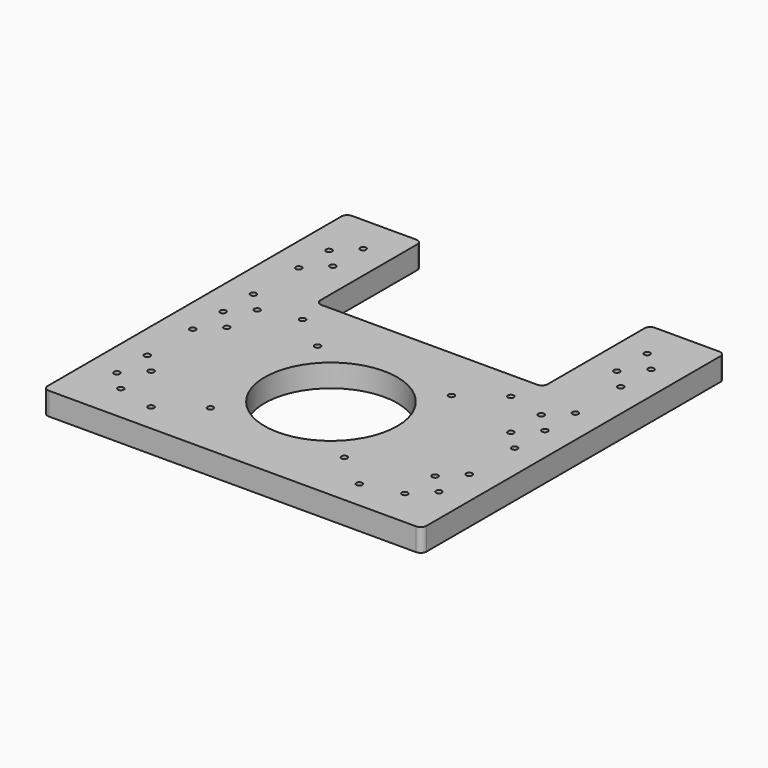
from build123d import *

# Parameters (mm, degrees)
SKETCH_R    = 35
SKETCH_R_2  = 1.5625
PAD_DEPTH   = 12
FILLET_R    = 3
FILLET001_R = 3


with BuildPart() as part:
    # Sketch → Pad (new body)
    with BuildSketch(Plane.XY):
        Polygon((0, 0), (200, 0), (200, 200), (160, 200), (160, 130), (40, 130), (40, 200), (0, 200), align=None)
        with Locations((100, 65)):
            Circle(SKETCH_R, mode=Mode.SUBTRACT)
        with Locations((45, 115)):
            Circle(SKETCH_R_2, mode=Mode.SUBTRACT)
        with Locations((45, 15)):
            Circle(SKETCH_R_2, mode=Mode.SUBTRACT)
        with Locations((155, 115)):
            Circle(SKETCH_R_2, mode=Mode.SUBTRACT)
        with Locations((155, 15)):
            Circle(SKETCH_R_2, mode=Mode.SUBTRACT)
        with Locations((185, 30)):
            Circle(SKETCH_R_2, mode=Mode.SUBTRACT)
        with Locations((135.355339, 100.355339)):
            Circle(SKETCH_R_2, mode=Mode.SUBTRACT)
        with Locations((64.644661, 29.644661)):
            Circle(SKETCH_R_2, mode=Mode.SUBTRACT)
        with Locations((64.644661, 100.355339)):
            Circle(SKETCH_R_2, mode=Mode.SUBTRACT)
        with Locations((135.355339, 29.644661)):
            Circle(SKETCH_R_2, mode=Mode.SUBTRACT)
        with Locations((175, 20)):
            Circle(SKETCH_R_2, mode=Mode.SUBTRACT)
        with Locations((175, 40)):
            Circle(SKETCH_R_2, mode=Mode.SUBTRACT)
        with Locations((185, 50)):
            Circle(SKETCH_R_2, mode=Mode.SUBTRACT)
        with Locations((175, 90)):
            Circle(SKETCH_R_2, mode=Mode.SUBTRACT)
        with Locations((175, 110)):
            Circle(SKETCH_R_2, mode=Mode.SUBTRACT)
        with Locations((185, 80)):
            Circle(SKETCH_R_2, mode=Mode.SUBTRACT)
        with Locations((185, 100)):
            Circle(SKETCH_R_2, mode=Mode.SUBTRACT)
        with Locations((15, 30)):
            Circle(SKETCH_R_2, mode=Mode.SUBTRACT)
        with Locations((25, 20)):
            Circle(SKETCH_R_2, mode=Mode.SUBTRACT)
        with Locations((25, 40)):
            Circle(SKETCH_R_2, mode=Mode.SUBTRACT)
        with Locations((15, 50)):
            Circle(SKETCH_R_2, mode=Mode.SUBTRACT)
        with Locations((25, 90)):
            Circle(SKETCH_R_2, mode=Mode.SUBTRACT)
        with Locations((25, 110)):
            Circle(SKETCH_R_2, mode=Mode.SUBTRACT)
        with Locations((15, 80)):
            Circle(SKETCH_R_2, mode=Mode.SUBTRACT)
        with Locations((15, 100)):
            Circle(SKETCH_R_2, mode=Mode.SUBTRACT)
        with Locations((25, 180)):
            Circle(SKETCH_R_2, mode=Mode.SUBTRACT)
        with Locations((25, 160)):
            Circle(SKETCH_R_2, mode=Mode.SUBTRACT)
        with Locations((15, 170)):
            Circle(SKETCH_R_2, mode=Mode.SUBTRACT)
        with Locations((175, 180)):
            Circle(SKETCH_R_2, mode=Mode.SUBTRACT)
        with Locations((175, 160)):
            Circle(SKETCH_R_2, mode=Mode.SUBTRACT)
        with Locations((185, 170)):
            Circle(SKETCH_R_2, mode=Mode.SUBTRACT)
        with Locations((15, 120)):
            Circle(SKETCH_R_2, mode=Mode.SUBTRACT)
        with Locations((15, 150)):
            Circle(SKETCH_R_2, mode=Mode.SUBTRACT)
        with Locations((185, 120)):
            Circle(SKETCH_R_2, mode=Mode.SUBTRACT)
        with Locations((185, 150)):
            Circle(SKETCH_R_2, mode=Mode.SUBTRACT)
    extrude(amount=PAD_DEPTH)

    # Fillet
    fillet_edges = [part.edges().sort_by_distance(p)[0] for p in [
        (0, 0, 6),
        (200, 0, 6),
        (0, 200, 6),
        (160, 200, 6),
        (40, 200, 6),
        (200, 200, 6),
    ]]
    fillet(fillet_edges, radius=FILLET_R)

    # Fillet001
    fillet001_edges = [part.edges().sort_by_distance(p)[0] for p in [
        (160, 130, 6),
        (40, 130, 6),
    ]]
    fillet(fillet001_edges, radius=FILLET001_R)


solid = part.part
